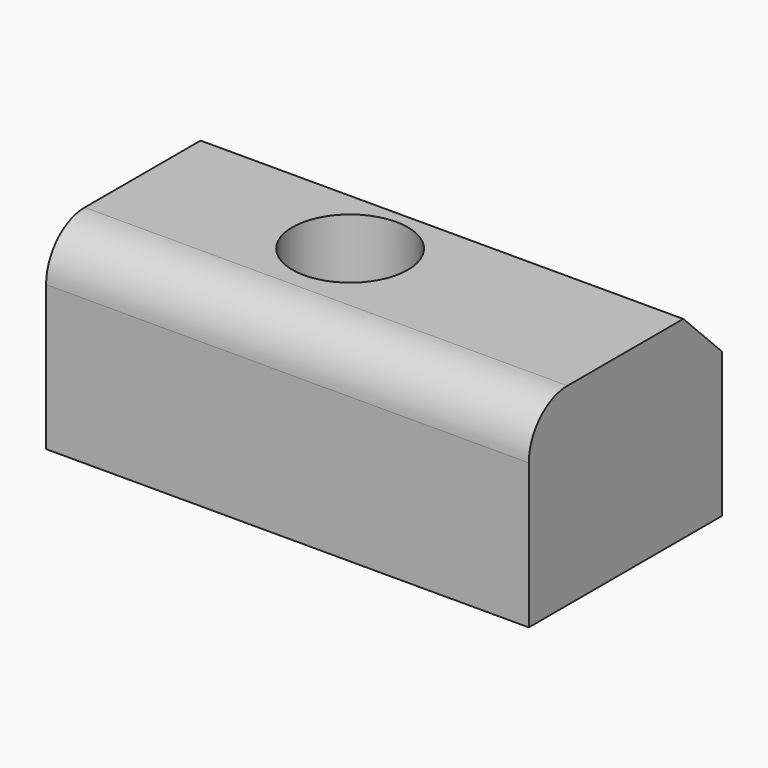
from build123d import *

# Parameters (mm, degrees)
F0_W     = 50
F0_H     = 20
F1_DEPTH = 25
F2_R     = 5
F3_SIZE  = 5
F4_R     = 5.978128
F5_DEPTH = 25


with BuildPart() as f1:
    # F0 (on Front) → F1 (new body)
    with BuildSketch(Plane.XZ):
        with Locations((10.46083, 8.981205)):
            Rectangle(F0_W, F0_H)
    extrude(amount=F1_DEPTH)

    # F2
    f2_edges = [f1.edges().sort_by_distance(p)[0] for p in [
        (10.46083, -25, 18.981205),
    ]]
    fillet(f2_edges, radius=F2_R)

    # F3
    f3_edges = [f1.edges().sort_by_distance(p)[0] for p in [
        (10.46083, 0, 18.981205),
    ]]
    chamfer(f3_edges, length=F3_SIZE)

    # F4 (on face) → F5 (cut)
    with BuildSketch(Plane.XY.offset(18.981205)):
        with Locations((6.721196, -12.210171)):
            Circle(F4_R)
    extrude(amount=-F5_DEPTH, mode=Mode.SUBTRACT)


solid = f1.part
